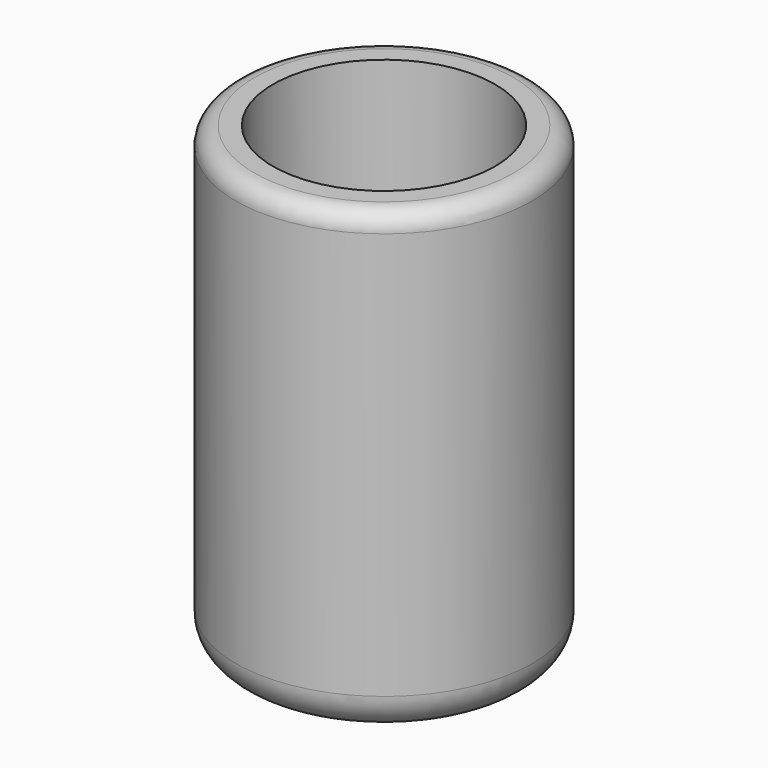
from build123d import *

# Parameters (mm, degrees)
F0_R     = 8
F1_DEPTH = 25
F2_R     = 2
F3_R     = 6
F4_DEPTH = 20
F5_R     = 1


with BuildPart() as f1:
    # F0 (on Top) → F1 (new body)
    with BuildSketch(Plane.XY):
        Circle(F0_R)
    extrude(amount=F1_DEPTH)

    # F2
    f2_edges = [f1.edges().sort_by_distance(p)[0] for p in [
        (-8, 0, 0),
    ]]
    fillet(f2_edges, radius=F2_R)

    # F3 (on face) → F4 (cut)
    with BuildSketch(Plane.XY.offset(25)):
        Circle(F3_R)
    extrude(amount=-F4_DEPTH, mode=Mode.SUBTRACT)

    # F5
    f5_edges = [f1.edges().sort_by_distance(p)[0] for p in [
        (-8, 0, 25),
    ]]
    fillet(f5_edges, radius=F5_R)


solid = f1.part
